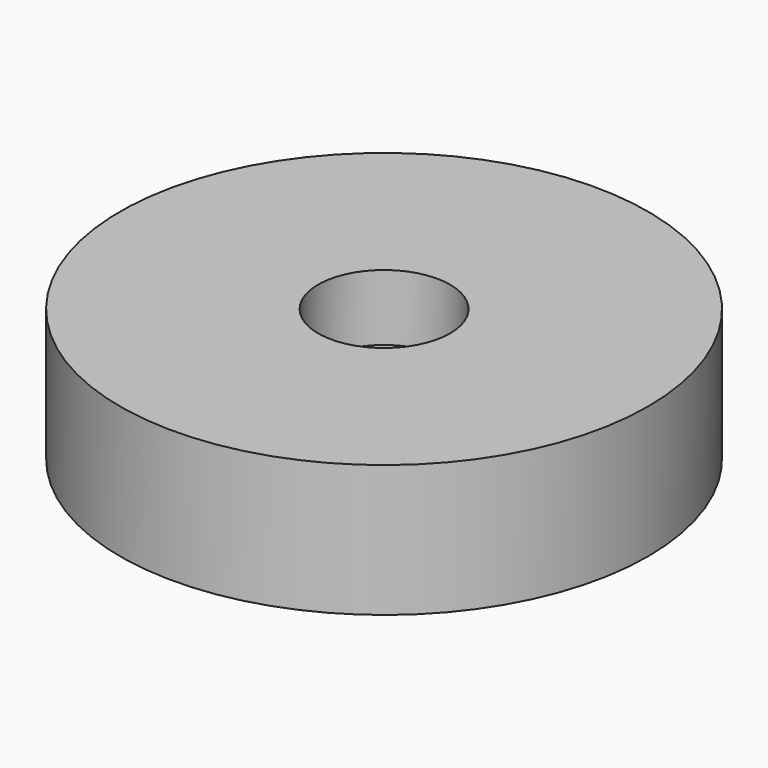
from build123d import *

# Parameters (mm, degrees)
F0_R     = 25.4
F0_R_2   = 6.35
F1_DEPTH = 6.35
F2_R     = 9.525
F3_DEPTH = 6.35


with BuildPart() as f1:
    # F0 (on Top) → F1 (new body, symmetric)
    with BuildSketch(Plane.XY):
        Circle(F0_R)
        Circle(F0_R_2, mode=Mode.SUBTRACT)
    extrude(amount=F1_DEPTH, both=True)

    # F2 (on Top) → F3 (cut)
    with BuildSketch(Plane.XY):
        Circle(F2_R)
    extrude(amount=-F3_DEPTH, mode=Mode.SUBTRACT)


solid = f1.part
